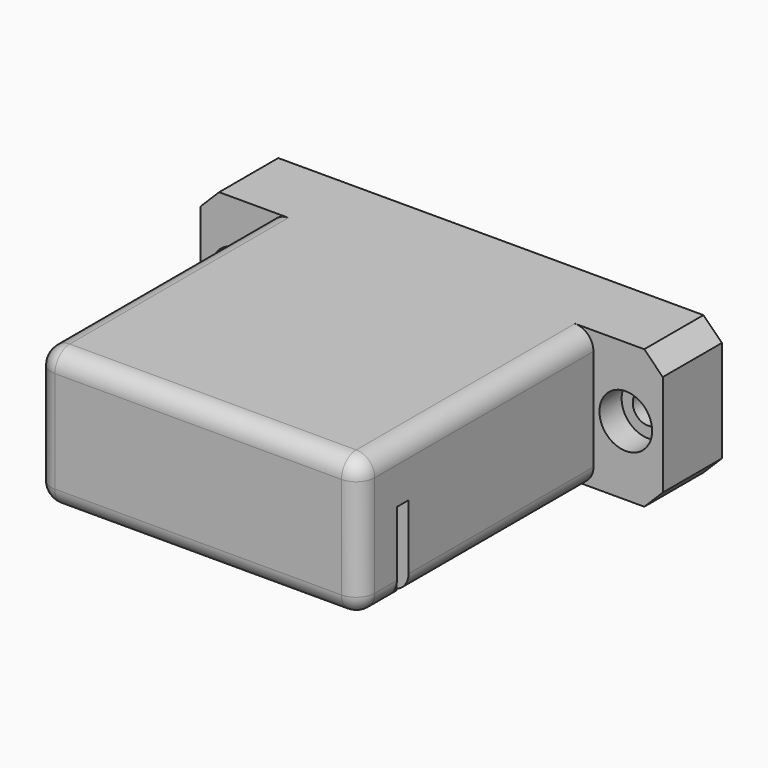
from build123d import *

# Parameters (mm, degrees)
F0_W     = 35
F0_H     = 25
F0_H_2   = 1.58
F0_H_3   = 5
F1_DEPTH = 15
F3_DEPTH = 9
F4_R     = 2
F6_SIZE  = 2
F5_R     = 1.65
F7_R     = 1.65
F8_DEPTH = 8.0000008897
F5_R_2   = 2.85
F7_R_2   = 2.85
F9_DEPTH = 3


with BuildPart() as f1:
    # F0 (on Top) → F1 (new body)
    with BuildSketch(Plane.XY):
        Polygon((28.2275901735, 12.2229893546), (-21.7724098265, 12.2229893546), (-21.7724098265, 4.2229884648), (-14.2724098265, 4.2229884648), (20.7275901735, 4.2229884648), (28.2275901735, 4.2229884648), align=None)
        with Locations((3.2275901735, -8.2770115352)):
            Rectangle(F0_W, F0_H)
        with Locations((3.2275901735, -21.5670115352)):
            Rectangle(F0_W, F0_H_2)
        with Locations((3.2275901735, -24.8570115352)):
            Rectangle(F0_W, F0_H_3)
    extrude(amount=F1_DEPTH)

    # F2 (on face) → F3 (cut)
    with BuildSketch(Plane.XY):
        with BuildLine():
            Line((19.5775901735, -21.6070115352), (19.8775901735, -21.6070115352))
            ThreePointArc((19.8775901735, -21.6070115352), (20.195788225, -21.7388134836), (20.3275901735, -22.0570115352))
            Line((20.3275901735, -22.0570115352), (20.3275901735, -22.3570115352))
            Line((20.3275901735, -22.3570115352), (20.7275901735, -22.3570115352))
            Line((20.7275901735, -22.3570115352), (20.7275901735, -20.7770115352))
            Line((20.7275901735, -20.7770115352), (-14.2724098265, -20.7770115352))
            Line((-14.2724098265, -20.7770115352), (-14.2724098265, -22.3570115352))
            Line((-14.2724098265, -22.3570115352), (-14.1524098265, -22.3570115352))
            Line((-14.1524098265, -22.3570115352), (-14.1524098265, -22.0570115352))
            ThreePointArc((-14.1524098265, -22.0570115352), (-14.0206078781, -21.7388134836), (-13.7024098265, -21.6070115352))
            Line((-13.7024098265, -21.6070115352), (-13.6128300801, -21.6070115352))
            Line((-13.6128300801, -21.6070115352), (-13.4024098265, -21.6070115352))
            ThreePointArc((-13.4024098265, -21.6070115352), (-13.084211775, -21.7388134836), (-12.9524098265, -22.0570115352))
            Line((-12.9524098265, -22.0570115352), (-12.9524098265, -22.3570115352))
            Line((-12.9524098265, -22.3570115352), (-12.0724098265, -22.3570115352))
            Line((-12.0724098265, -22.3570115352), (-12.0724098265, -22.0570115352))
            ThreePointArc((-12.0724098265, -22.0570115352), (-11.9406078781, -21.7388134836), (-11.6224098265, -21.6070115352))
            Line((-11.6224098265, -21.6070115352), (-11.3224098265, -21.6070115352))
            ThreePointArc((-11.3224098265, -21.6070115352), (-11.004211775, -21.7388134836), (-10.8724098265, -22.0570115352))
            Line((-10.8724098265, -22.0570115352), (-10.8724098265, -22.3570115352))
            Line((-10.8724098265, -22.3570115352), (-9.9924098265, -22.3570115352))
            Line((-9.9924098265, -22.3570115352), (-9.9924098265, -22.0570115352))
            ThreePointArc((-9.9924098265, -22.0570115352), (-9.8606078781, -21.7388134836), (-9.5424098265, -21.6070115352))
            Line((-9.5424098265, -21.6070115352), (-9.2424098265, -21.6070115352))
            ThreePointArc((-9.2424098265, -21.6070115352), (-8.924211775, -21.7388134836), (-8.7924098265, -22.0570115352))
            Line((-8.7924098265, -22.0570115352), (-8.7924098265, -22.3570115352))
            Line((-8.7924098265, -22.3570115352), (-7.9124098265, -22.3570115352))
            Line((-7.9124098265, -22.3570115352), (-7.9124098265, -22.0570115352))
            ThreePointArc((-7.9124098265, -22.0570115352), (-7.7806078781, -21.7388134836), (-7.4624098265, -21.6070115352))
            Line((-7.4624098265, -21.6070115352), (-7.1624098265, -21.6070115352))
            ThreePointArc((-7.1624098265, -21.6070115352), (-6.844211775, -21.7388134836), (-6.7124098265, -22.0570115352))
            Line((-6.7124098265, -22.0570115352), (-6.7124098265, -22.3570115352))
            Line((-6.7124098265, -22.3570115352), (-5.8324098265, -22.3570115352))
            Line((-5.8324098265, -22.3570115352), (-5.8324098265, -22.0570115352))
            ThreePointArc((-5.8324098265, -22.0570115352), (-5.7006078781, -21.7388134836), (-5.3824098265, -21.6070115352))
            Line((-5.3824098265, -21.6070115352), (-5.0824098265, -21.6070115352))
            ThreePointArc((-5.0824098265, -21.6070115352), (-4.764211775, -21.7388134836), (-4.6324098265, -22.0570115352))
            Line((-4.6324098265, -22.0570115352), (-4.6324098265, -22.3570115352))
            Line((-4.6324098265, -22.3570115352), (-3.7524098265, -22.3570115352))
            Line((-3.7524098265, -22.3570115352), (-3.7524098265, -22.0570115352))
            ThreePointArc((-3.7524098265, -22.0570115352), (-3.6206078781, -21.7388134836), (-3.3024098265, -21.6070115352))
            Line((-3.3024098265, -21.6070115352), (-3.0024098265, -21.6070115352))
            ThreePointArc((-3.0024098265, -21.6070115352), (-2.684211775, -21.7388134836), (-2.5524098265, -22.0570115352))
            Line((-2.5524098265, -22.0570115352), (-2.5524098265, -22.3570115352))
            Line((-2.5524098265, -22.3570115352), (-1.6724098265, -22.3570115352))
            Line((-1.6724098265, -22.3570115352), (-1.6724098265, -22.0570115352))
            ThreePointArc((-1.6724098265, -22.0570115352), (-1.5406078781, -21.7388134836), (-1.2224098265, -21.6070115352))
            Line((-1.2224098265, -21.6070115352), (-0.9224098265, -21.6070115352))
            ThreePointArc((-0.9224098265, -21.6070115352), (-0.604211775, -21.7388134836), (-0.4724098265, -22.0570115352))
            Line((-0.4724098265, -22.0570115352), (-0.4724098265, -22.3570115352))
            Line((-0.4724098265, -22.3570115352), (0.4075901735, -22.3570115352))
            Line((0.4075901735, -22.3570115352), (0.4075901735, -22.0570115352))
            ThreePointArc((0.4075901735, -22.0570115352), (0.5393921219, -21.7388134836), (0.8575901735, -21.6070115352))
            Line((0.8575901735, -21.6070115352), (1.1575901735, -21.6070115352))
            ThreePointArc((1.1575901735, -21.6070115352), (1.475788225, -21.7388134836), (1.6075901735, -22.0570115352))
            Line((1.6075901735, -22.0570115352), (1.6075901735, -22.3570115352))
            Line((1.6075901735, -22.3570115352), (2.4875901735, -22.3570115352))
            Line((2.4875901735, -22.3570115352), (2.4875901735, -22.0570115352))
            ThreePointArc((2.4875901735, -22.0570115352), (2.6193921219, -21.7388134836), (2.9375901735, -21.6070115352))
            Line((2.9375901735, -21.6070115352), (3.2375901735, -21.6070115352))
            ThreePointArc((3.2375901735, -21.6070115352), (3.555788225, -21.7388134836), (3.6875901735, -22.0570115352))
            Line((3.6875901735, -22.0570115352), (3.6875901735, -22.3570115352))
            Line((3.6875901735, -22.3570115352), (4.5675901735, -22.3570115352))
            Line((4.5675901735, -22.3570115352), (4.5675901735, -22.0570115352))
            ThreePointArc((4.5675901735, -22.0570115352), (4.6993921219, -21.7388134836), (5.0175901735, -21.6070115352))
            Line((5.0175901735, -21.6070115352), (5.3175901735, -21.6070115352))
            ThreePointArc((5.3175901735, -21.6070115352), (5.635788225, -21.7388134836), (5.7675901735, -22.0570115352))
            Line((5.7675901735, -22.0570115352), (5.7675901735, -22.3570115352))
            Line((5.7675901735, -22.3570115352), (6.6475901735, -22.3570115352))
            Line((6.6475901735, -22.3570115352), (6.6475901735, -22.0570115352))
            ThreePointArc((6.6475901735, -22.0570115352), (6.7793921219, -21.7388134836), (7.0975901735, -21.6070115352))
            Line((7.0975901735, -21.6070115352), (7.3975901735, -21.6070115352))
            ThreePointArc((7.3975901735, -21.6070115352), (7.715788225, -21.7388134836), (7.8475901735, -22.0570115352))
            Line((7.8475901735, -22.0570115352), (7.8475901735, -22.3570115352))
            Line((7.8475901735, -22.3570115352), (8.7275901735, -22.3570115352))
            Line((8.7275901735, -22.3570115352), (8.7275901735, -22.0570115352))
            ThreePointArc((8.7275901735, -22.0570115352), (8.8593921219, -21.7388134836), (9.1775901735, -21.6070115352))
            Line((9.1775901735, -21.6070115352), (9.4775901735, -21.6070115352))
            ThreePointArc((9.4775901735, -21.6070115352), (9.795788225, -21.7388134836), (9.9275901735, -22.0570115352))
            Line((9.9275901735, -22.0570115352), (9.9275901735, -22.3570115352))
            Line((9.9275901735, -22.3570115352), (10.8075901735, -22.3570115352))
            Line((10.8075901735, -22.3570115352), (10.8075901735, -22.0570115352))
            ThreePointArc((10.8075901735, -22.0570115352), (10.9393921219, -21.7388134836), (11.2575901735, -21.6070115352))
            Line((11.2575901735, -21.6070115352), (11.5575901735, -21.6070115352))
            ThreePointArc((11.5575901735, -21.6070115352), (11.875788225, -21.7388134836), (12.0075901735, -22.0570115352))
            Line((12.0075901735, -22.0570115352), (12.0075901735, -22.3570115352))
            Line((12.0075901735, -22.3570115352), (12.8875901735, -22.3570115352))
            Line((12.8875901735, -22.3570115352), (12.8875901735, -22.0570115352))
            ThreePointArc((12.8875901735, -22.0570115352), (13.0193921219, -21.7388134836), (13.3375901735, -21.6070115352))
            Line((13.3375901735, -21.6070115352), (13.6375901735, -21.6070115352))
            ThreePointArc((13.6375901735, -21.6070115352), (13.955788225, -21.7388134836), (14.0875901735, -22.0570115352))
            Line((14.0875901735, -22.0570115352), (14.0875901735, -22.3570115352))
            Line((14.0875901735, -22.3570115352), (14.9675901735, -22.3570115352))
            Line((14.9675901735, -22.3570115352), (14.9675901735, -22.0570115352))
            ThreePointArc((14.9675901735, -22.0570115352), (15.0993921219, -21.7388134836), (15.4175901735, -21.6070115352))
            Line((15.4175901735, -21.6070115352), (15.7175901735, -21.6070115352))
            ThreePointArc((15.7175901735, -21.6070115352), (16.035788225, -21.7388134836), (16.1675901735, -22.0570115352))
            Line((16.1675901735, -22.0570115352), (16.1675901735, -22.3570115352))
            Line((16.1675901735, -22.3570115352), (17.0475901735, -22.3570115352))
            Line((17.0475901735, -22.3570115352), (17.0475901735, -22.0570115352))
            ThreePointArc((17.0475901735, -22.0570115352), (17.1793921219, -21.7388134836), (17.4975901735, -21.6070115352))
            Line((17.4975901735, -21.6070115352), (17.7975901735, -21.6070115352))
            ThreePointArc((17.7975901735, -21.6070115352), (18.115788225, -21.7388134836), (18.2475901735, -22.0570115352))
            Line((18.2475901735, -22.0570115352), (18.2475901735, -22.3570115352))
            Line((18.2475901735, -22.3570115352), (19.1275901735, -22.3570115352))
            Line((19.1275901735, -22.3570115352), (19.1275901735, -22.0570115352))
            ThreePointArc((19.1275901735, -22.0570115352), (19.2593921219, -21.7388134836), (19.5775901735, -21.6070115352))
        make_face()
    extrude(amount=F3_DEPTH, mode=Mode.SUBTRACT)

    # F4
    f4_edges = [f1.edges().sort_by_distance(p)[0] for p in [
        (-14.27241, -8.277012, 0),
        (-14.27241, -11.567012, 15),
        (20.72759, -11.567012, 15),
        (20.72759, -8.277012, 0),
        (3.22759, -27.357012, 0),
        (3.22759, -27.357012, 15),
        (20.72759, -27.357012, 7.5),
        (-14.27241, -27.357012, 7.5),
        (20.72759, -24.857012, 0),
        (-14.27241, -24.857012, 0),
    ]]
    fillet(f4_edges, radius=F4_R)

    # F6
    f6_edges = [f1.edges().sort_by_distance(p)[0] for p in [
        (-21.77241, 8.222989, 0),
        (-21.77241, 8.222989, 15),
        (28.22759, 8.222989, 0),
        (28.22759, 8.222989, 15),
    ]]
    chamfer(f6_edges, length=F6_SIZE)

    # F5 (on face) + F7 (on face) → F8 (cut, through all)
    with BuildSketch(Plane.XZ.offset(-4.2229884648)):
        with Locations((24.2275901735, 7.5)):
            Circle(F5_R)
    with BuildSketch(Plane.XZ.offset(-4.2229884648)):
        with Locations((-17.7724098265, 7.5)):
            Circle(F7_R)
    extrude(amount=-F8_DEPTH, mode=Mode.SUBTRACT)

    # F5 (on face) + F7 (on face) → F9 (cut)
    with BuildSketch(Plane.XZ.offset(-4.2229884648)):
        with Locations((24.2275901735, 7.5)):
            Circle(F5_R_2)
        with Locations((24.2275901735, 7.5)):
            Circle(F5_R, mode=Mode.SUBTRACT)
    with BuildSketch(Plane.XZ.offset(-4.2229884648)):
        with Locations((-17.7724098265, 7.5)):
            Circle(F7_R_2)
        with Locations((-17.7724098265, 7.5)):
            Circle(F7_R, mode=Mode.SUBTRACT)
    extrude(amount=-F9_DEPTH, mode=Mode.SUBTRACT)


solid = f1.part
